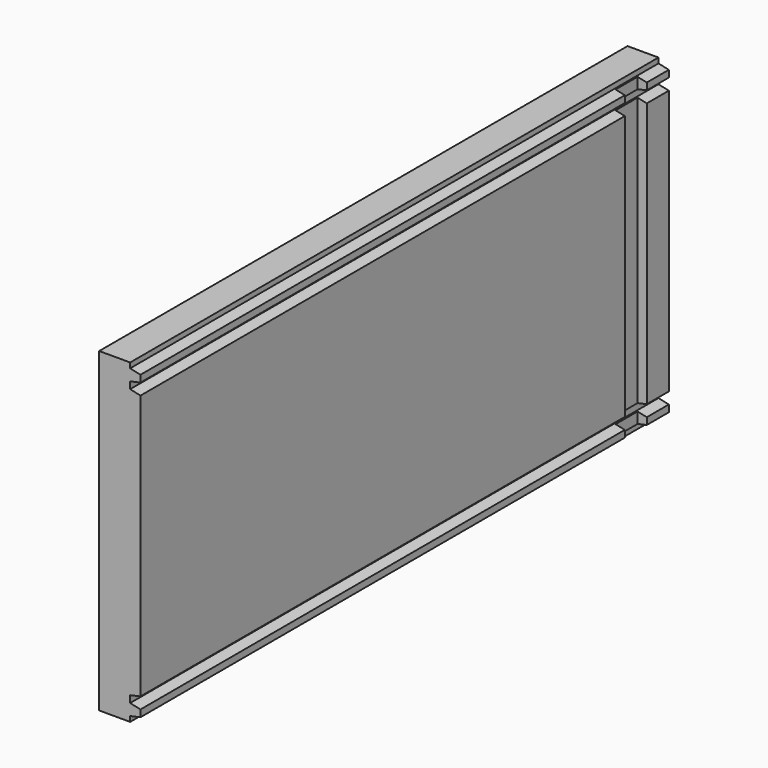
from build123d import *

# Parameters (mm, degrees)
F0_W     = 19.05
F0_H     = 146.05
F1_DEPTH = 304.8
F4_DEPTH = 304.8
F6_DEPTH = 304.8
F7_W     = 12.7
F7_H     = 146.05
F8_DEPTH = 12.7


with BuildPart() as f1:
    # F0 (on Front) → F1 (new body)
    with BuildSketch(Plane.XZ):
        with Locations((9.525, 73.025)):
            Rectangle(F0_W, F0_H)
    extrude(amount=F1_DEPTH)

    # F3 (on Front) → F4 (cut)
    with BuildSketch(Plane.XZ):
        Polygon((19.05, 124.6124), (24.139026, 124.6124), (24.139026, 153.1874), (14.2875, 153.1874), (14.2875, 143.6624), (19.05, 142.604067), (19.05, 139.429067), (14.2875, 138.370733), (14.2875, 135.195733), (19.05, 134.1374), align=None)
    extrude(amount=F4_DEPTH, mode=Mode.SUBTRACT)

    # F5 (on Front) → F6 (cut)
    with BuildSketch(Plane.XZ):
        Polygon((24.139026, -7.1374), (24.139026, 21.4376), (19.05, 21.4376), (19.05, 11.9126), (14.2875, 10.854267), (14.2875, 7.679267), (19.05, 6.620933), (19.05, 3.445933), (14.2875, 2.3876), (14.2875, -7.1374), align=None)
    extrude(amount=F6_DEPTH, mode=Mode.SUBTRACT)

    # F7 (on offset) → F8 (cut)
    with BuildSketch(Plane.XZ.offset(25.4)):
        with Locations((21.1455, 73.025)):
            Rectangle(F7_W, F7_H)
    extrude(amount=-F8_DEPTH, mode=Mode.SUBTRACT)


solid = f1.part
